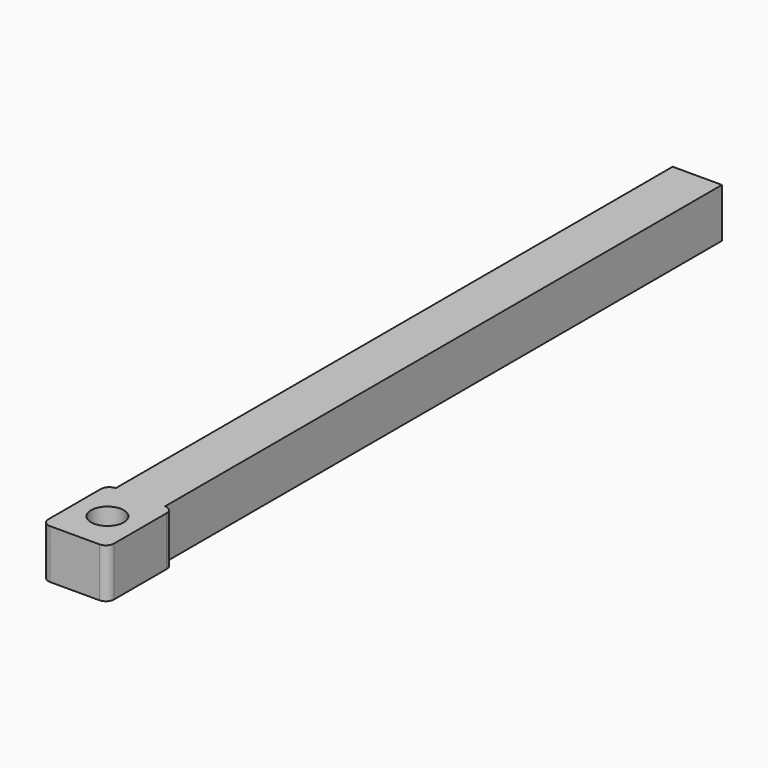
from build123d import *

# Parameters (mm, degrees)
PAD_DEPTH       = 6
SKETCH001_R     = 2
POCKET_DEPTH    = 8
POCKET001_DEPTH = 7


with BuildPart() as part:
    # Sketch → Pad (new body)
    with BuildSketch(Plane.XY):
        Polygon((1, 94.8), (7, 94.8), (7, 10), (8, 10), (8, 0), (0, 0), (0, 10), (1, 10), align=None)
    extrude(amount=PAD_DEPTH)

    # Sketch001 (on Face10 of Pad) → Pocket (cut)
    with BuildSketch(Plane.XY.offset(6)):
        with Locations((4, 4.995998)):
            Circle(SKETCH001_R)
    extrude(amount=-POCKET_DEPTH, mode=Mode.SUBTRACT)

    # Sketch002 (on Face5 of Pocket) → Pocket001 (cut)
    with BuildSketch(Plane.XY.offset(6)):
        with BuildLine():
            ThreePointArc((0, 1), (0.292893, 0.292893), (1, 0))
            Line((0, 0), (1, 0))
            Line((0, 1), (0, 0))
        make_face()
        with BuildLine():
            ThreePointArc((1, 10), (0.292893, 9.707107), (0, 9))
            Line((0, 9), (0, 10))
            Line((0, 10), (1, 10))
        make_face()
        with BuildLine():
            ThreePointArc((8, 9), (7.707107, 9.707107), (7, 10))
            Line((7, 10), (8, 10))
            Line((8, 10), (8, 9))
        make_face()
        with BuildLine():
            ThreePointArc((7, 0), (7.707107, 0.292893), (8, 1))
            Line((8, 0), (8, 1))
            Line((7, 0), (8, 0))
        make_face()
    extrude(amount=-POCKET001_DEPTH, mode=Mode.SUBTRACT)


solid = part.part
